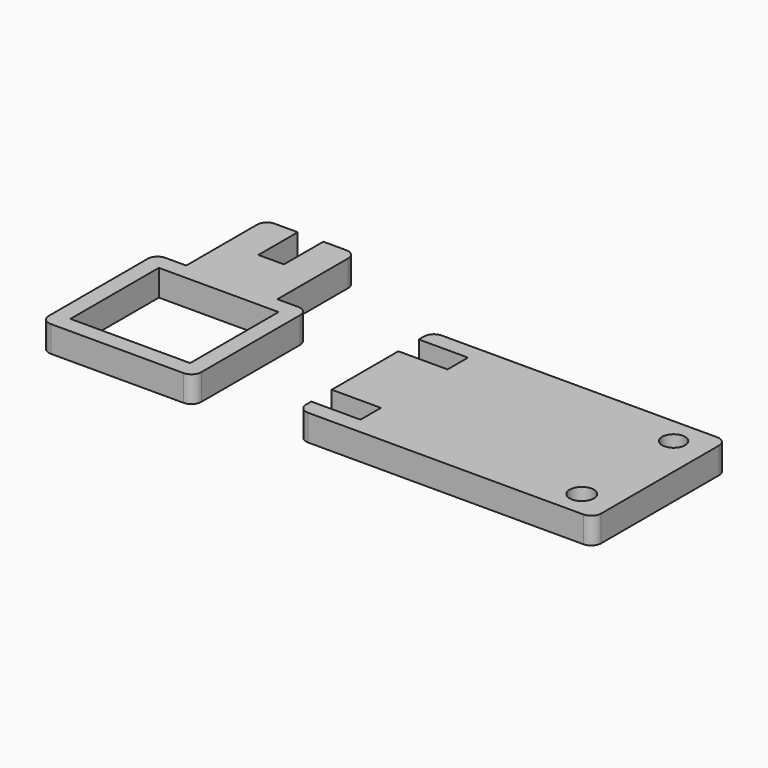
from build123d import *

# Parameters (mm, degrees)
F0_R     = 3.674937
F0_R_2   = 3.5
F1_DEPTH = 8
F0_W     = 7.8
F0_H     = 15
F0_W_2   = 36.5
F0_H_2   = 33.7
F2_DEPTH = 8
F3_R     = 3
F3_2_R   = 3


with BuildPart() as f1:
    # F0 (on Top) → F1 (new body)
    with BuildSketch(Plane.XY):
        Polygon((-56.608175, -8.385012), (-56.608175, -13.385012), (33.391825, -13.385012), (33.391825, 37.614988), (-56.608175, 37.614988), (-56.608175, 32.614988), (-41.608175, 32.614988), (-41.608175, 24.814988), (-56.608175, 24.814988), (-56.608175, -0.585012), (-41.608175, -0.585012), (-41.608175, -8.385012), align=None)
        with Locations((23.503186, -5.385012)):
            Circle(F0_R, mode=Mode.SUBTRACT)
        with Locations((23.503186, 29.614988)):
            Circle(F0_R_2, mode=Mode.SUBTRACT)
    extrude(amount=F1_DEPTH)

    # F3#2
    f3_2_edges = [f1.edges().sort_by_distance(p)[0] for p in [
        (33.391825, -13.385012, 4),
        (33.391825, 37.614988, 4),
        (-56.608175, -13.385012, 4),
        (-56.608175, 37.614988, 4),
    ]]
    fillet(f3_2_edges, radius=F3_2_R)


with BuildPart() as f2:
    # F0 (on Top) → F2 (new body)
    with BuildSketch(Plane.XY):
        Polygon((-123.66634, 57.777392), (-123.66634, 27.777392), (-113.66634, 27.777392), (-113.66634, 42.777392), (-113.66634, 57.777392), align=None)
        with Locations((-109.76634, 35.277392)):
            Rectangle(F0_W, F0_H)
        Polygon((-105.86634, 27.777392), (-95.86634, 27.777392), (-95.86634, 57.777392), (-105.86634, 57.777392), (-105.86634, 42.777392), align=None)
        Polygon((-133.01634, 27.777392), (-133.01634, -15.922608), (-86.51634, -15.922608), (-86.51634, 27.777392), (-95.86634, 27.777392), (-105.86634, 27.777392), (-113.66634, 27.777392), (-123.66634, 27.777392), align=None)
        with Locations((-109.76634, 5.927392)):
            Rectangle(F0_W_2, F0_H_2, mode=Mode.SUBTRACT)
    extrude(amount=F2_DEPTH)

    # F3
    f3_edges = [f2.edges().sort_by_distance(p)[0] for p in [
        (-133.01634, -15.922608, 4),
        (-86.51634, -15.922608, 4),
        (-86.51634, 27.777392, 4),
        (-133.01634, 27.777392, 4),
        (-95.86634, 57.777392, 4),
        (-123.66634, 57.777392, 4),
    ]]
    fillet(f3_edges, radius=F3_R)


solid = Compound([f1.part, f2.part])
